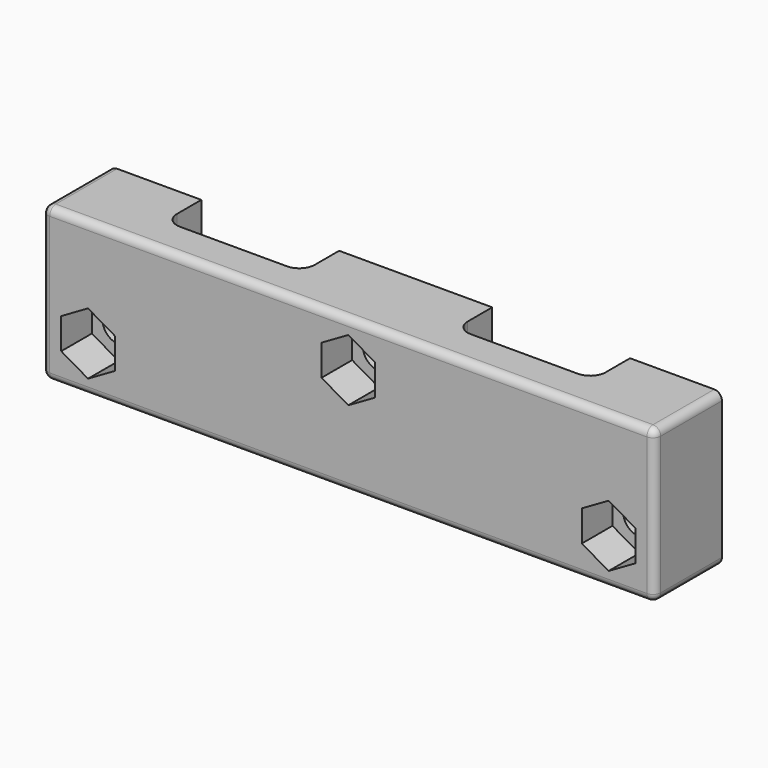
from build123d import *

# Parameters (mm, degrees)
SKETCH_W        = 80
SKETCH_H        = 20
PAD_DEPTH       = 11
SKETCH001_R     = 2.1
POCKET_DEPTH    = 11.001
POCKET001_DEPTH = 5
SKETCH003_W     = 18
SKETCH003_H     = 6
POCKET002_DEPTH = 20.001
FILLET_R        = 2
FILLET001_R     = 2
FILLET002_R     = 2
FILLET003_R     = 2
FILLET004_R     = 1


with BuildPart() as part:
    # Sketch → Pad (new body)
    with BuildSketch(Plane.XZ):
        with Locations((40, 10)):
            Rectangle(SKETCH_W, SKETCH_H)
    extrude(amount=PAD_DEPTH)

    # Sketch001 (on Face6 of Pad) → Pocket (cut, through all)
    with BuildSketch(Plane.XZ.offset(11)):
        with Locations((6, 6)):
            Circle(SKETCH001_R)
        with Locations((40, 14)):
            Circle(SKETCH001_R)
        with Locations((74, 6)):
            Circle(SKETCH001_R)
    extrude(amount=-POCKET_DEPTH, mode=Mode.SUBTRACT)

    # Sketch002 (on Face5 of Pocket) → Pocket001 (cut)
    with BuildSketch(Plane.XZ.offset(11)):
        Polygon((9.5, 3.979274), (9.5, 8.020726), (6, 10.041452), (2.5, 8.020726), (2.5, 3.979274), (6, 1.958548), align=None)
        Polygon((40, 9.958548), (43.5, 11.979274), (43.5, 16.020726), (40, 18.041452), (36.5, 16.020726), (36.5, 11.979274), align=None)
        Polygon((77.5, 3.979274), (77.5, 8.020726), (74, 10.041452), (70.5, 8.020726), (70.5, 3.979274), (74, 1.958548), align=None)
    extrude(amount=-POCKET001_DEPTH, mode=Mode.SUBTRACT)

    # Sketch003 (on Face6 of Pocket001) → Pocket002 (cut, through all)
    with BuildSketch(Plane(origin=(0, 0, 20), x_dir=(-1, 0, 0), z_dir=(0, 0, 1))):
        with Locations((-59, 3)):
            Rectangle(SKETCH003_W, SKETCH003_H)
        with Locations((-21, 3)):
            Rectangle(SKETCH003_W, SKETCH003_H)
    extrude(amount=-POCKET002_DEPTH, mode=Mode.SUBTRACT)

    # Fillet
    fillet_edges = [part.edges().sort_by_distance(p)[0] for p in [
        (50, -6, 10),
    ]]
    fillet(fillet_edges, radius=FILLET_R)

    # Fillet001
    fillet001_edges = [part.edges().sort_by_distance(p)[0] for p in [
        (12, -6, 10),
    ]]
    fillet(fillet001_edges, radius=FILLET001_R)

    # Fillet002
    fillet002_edges = [part.edges().sort_by_distance(p)[0] for p in [
        (30, -6, 10),
    ]]
    fillet(fillet002_edges, radius=FILLET002_R)

    # Fillet003
    fillet003_edges = [part.edges().sort_by_distance(p)[0] for p in [
        (68, -6, 10),
    ]]
    fillet(fillet003_edges, radius=FILLET003_R)

    # Fillet004
    fillet004_edges = [part.edges().sort_by_distance(p)[0] for p in [
        (0, -5.5, 0),
        (40, -11, 0),
        (0, -11, 10),
        (40, -11, 20),
        (80, -11, 10),
        (80, -5.5, 0),
        (80, -5.5, 20),
        (0, -5.5, 20),
    ]]
    fillet(fillet004_edges, radius=FILLET004_R)


solid = part.part
